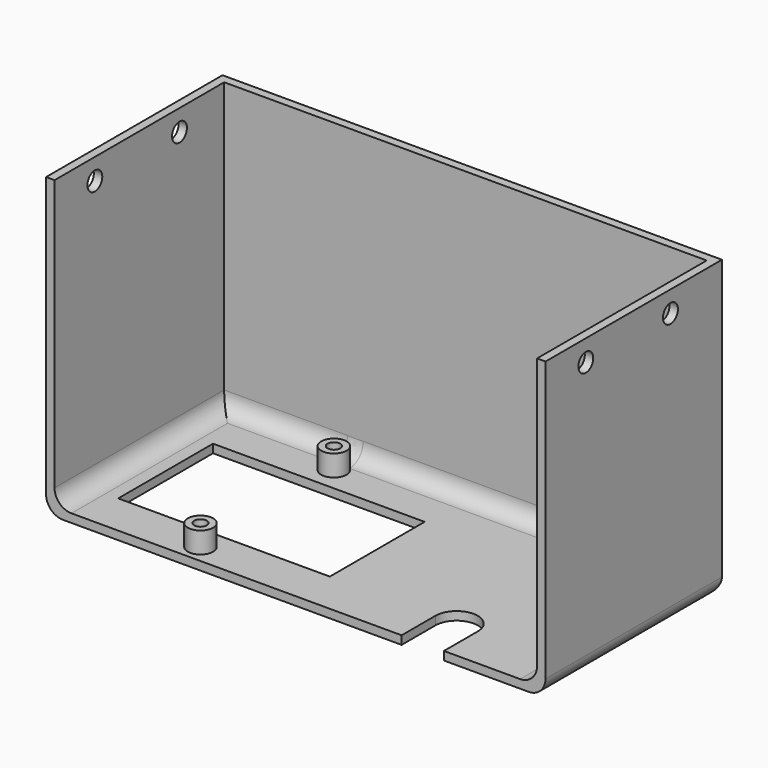
from build123d import *

# Parameters (mm, degrees)
SKETCH_W        = 118
SKETCH_H        = 52.1
PAD_DEPTH       = 70
SKETCH001_W     = 114
SKETCH001_H     = 50.1
POCKET_DEPTH    = 68
SKETCH002_W     = 50
SKETCH002_H     = 28
POCKET001_DEPTH = 2.001
SKETCH003_R     = 1.5
POCKET002_DEPTH = 2.001
SKETCH004_R     = 3
SKETCH004_R_2   = 1.5
PAD001_DEPTH    = 5
SKETCH005_R     = 2.2
POCKET003_DEPTH = 118.001
POCKET004_DEPTH = 2.001
FILLET_R        = 4
FILLET001_R     = 4


with BuildPart() as part:
    # Sketch → Pad (new body)
    with BuildSketch(Plane.XY):
        Rectangle(SKETCH_W, SKETCH_H)
    extrude(amount=PAD_DEPTH)

    # Sketch001 → Pocket (cut)
    with BuildSketch(Plane.XY.offset(70)):
        with Locations((0, -1)):
            Rectangle(SKETCH001_W, SKETCH001_H)
    extrude(amount=-POCKET_DEPTH, mode=Mode.SUBTRACT)

    # Sketch002 → Pocket001 (cut, through all)
    with BuildSketch(Plane.XY.offset(2)):
        with Locations((-25, -2)):
            Rectangle(SKETCH002_W, SKETCH002_H)
    extrude(amount=-POCKET001_DEPTH, mode=Mode.SUBTRACT)

    # Sketch003 → Pocket002 (cut, through all)
    with BuildSketch(Plane.XY.offset(2)):
        with Locations((-26, 17.7)):
            Circle(SKETCH003_R)
        with Locations((-26, -21.7)):
            Circle(SKETCH003_R)
    extrude(amount=-POCKET002_DEPTH, mode=Mode.SUBTRACT)

    # Sketch004 → Pad001 (new body)
    with BuildSketch(Plane.XY.offset(2)):
        with Locations((-26, 17.7)):
            Circle(SKETCH004_R)
        with Locations((-26, 17.7)):
            Circle(SKETCH004_R_2, mode=Mode.SUBTRACT)
        with Locations((-26, -21.7)):
            Circle(SKETCH004_R)
        with Locations((-26, -21.7)):
            Circle(SKETCH004_R_2, mode=Mode.SUBTRACT)
    extrude(amount=PAD001_DEPTH)

    # Sketch005 → Pocket003 (cut, through all)
    with BuildSketch(Plane(origin=(-59, 0, 0), x_dir=(0, -1, 0), z_dir=(-1, 0, 0))):
        with Locations((-10.85, 65)):
            Circle(SKETCH005_R)
        with Locations((14.15, 65)):
            Circle(SKETCH005_R)
    extrude(amount=-POCKET003_DEPTH, mode=Mode.SUBTRACT)

    # Sketch006 → Pocket004 (cut, through all)
    with BuildSketch(Plane.XY.offset(2)):
        with BuildLine():
            Line((35, -16.05), (35, -26.05))
            Line((35, -26.05), (25, -26.05))
            Line((25, -26.05), (25, -16.05))
            ThreePointArc((35, -16.05), (30, -11.049989), (25, -16.05))
        make_face()
    extrude(amount=-POCKET004_DEPTH, mode=Mode.SUBTRACT)

    # Fillet
    fillet_edges = [part.edges().sort_by_distance(p)[0] for p in [
        (0, 24.05, 2),
        (-57, -1, 2),
        (57, -1, 2),
    ]]
    fillet(fillet_edges, radius=FILLET_R)

    # Fillet001
    fillet001_edges = [part.edges().sort_by_distance(p)[0] for p in [
        (-59, 0, 0),
        (0, 26.05, 0),
        (59, 0, 0),
    ]]
    fillet(fillet001_edges, radius=FILLET001_R)


solid = part.part
